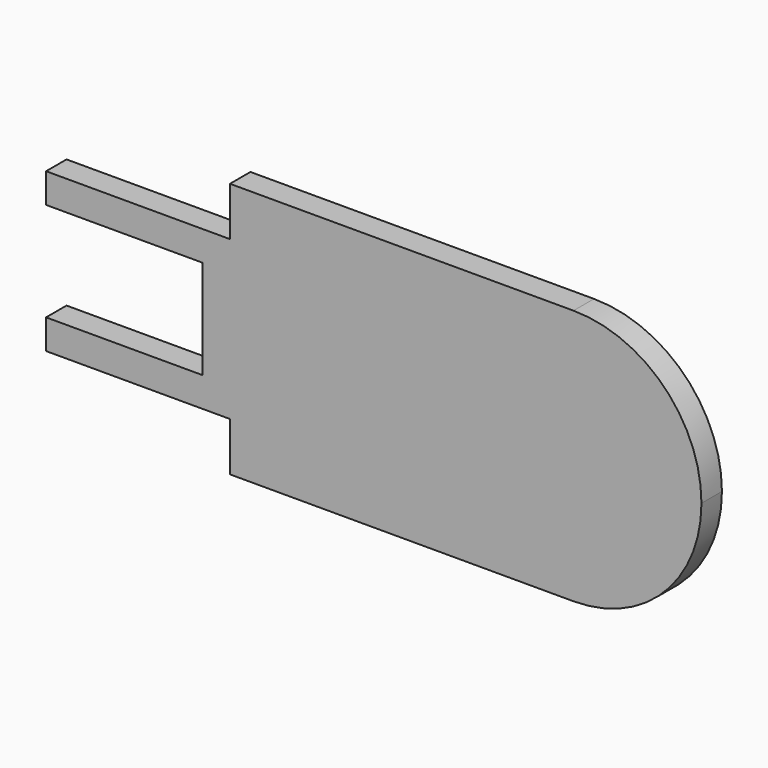
from build123d import *

# Parameters (mm, degrees)
F1_DEPTH = 2.5


with BuildPart() as f1:
    # F0 (on Front) → F1 (new body)
    with BuildSketch(Plane.XZ):
        with BuildLine():
            ThreePointArc((0, -12.5), (-12.5, 0), (0, 12.5))
            Line((0, 12.5), (-33.569522, 12.5))
            Line((-33.569522, 12.5), (-33.569522, 7.736509))
            Line((-33.569522, 7.736509), (-51.537901, 7.736509))
            Line((-51.537901, 7.736509), (-51.537901, 4.834829))
            Line((-51.537901, 4.834829), (-36.248095, 4.834829))
            Line((-36.248095, 4.834829), (-36.248095, 0))
            Line((-36.248095, 0), (-36.248095, -4.834829))
            Line((-36.248095, -4.834829), (-51.537901, -4.834829))
            Line((-51.537901, -4.834829), (-51.537901, -7.736509))
            Line((-51.537901, -7.736509), (-33.569522, -7.736509))
            Line((-33.569522, -7.736509), (-33.569522, -12.5))
            Line((-33.569522, -12.5), (0, -12.5))
        make_face()
        with BuildLine():
            ThreePointArc((0, -12.5), (8.838835, -8.838835), (12.5, 0))
            ThreePointArc((12.5, 0), (8.838835, 8.838835), (0, 12.5))
            ThreePointArc((0, 12.5), (-12.5, 0), (0, -12.5))
        make_face()
    extrude(amount=F1_DEPTH)


solid = f1.part
